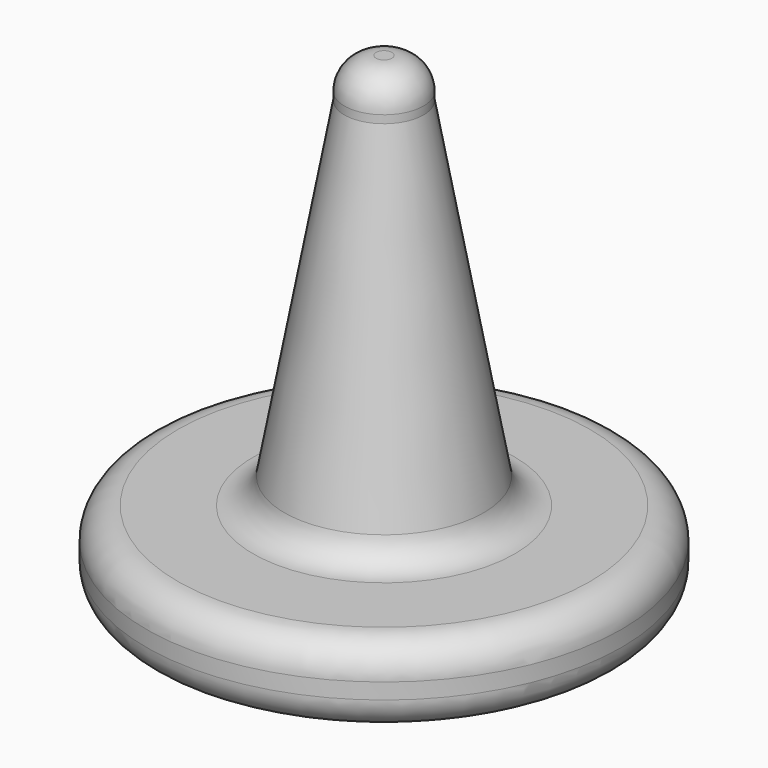
from build123d import *

# Parameters (mm, degrees)
F0_R     = 38.1
F1_DEPTH = 12.7
F4_R     = 5.08


with BuildPart() as f1:
    # F0 (on Top) → F1 (new body)
    with BuildSketch(Plane.XY):
        Circle(F0_R)
    extrude(amount=F1_DEPTH)

    # F2 (on Front) → F3 (revolve)
    with BuildSketch(Plane.XZ):
        Polygon((0, 69.85), (0, 12.7), (16.740909, 12.7), (6.35, 69.85), (6.35, 76.2), (0, 76.2), align=None)
    revolve(axis=Axis((0, 0, 41.275), (0, 0, 1)))

    # F4
    f4_edges = [f1.edges().sort_by_distance(p)[0] for p in [
        (-38.1, 0, 12.7),
        (-38.1, 0, 0),
        (-6.35, 0, 76.2),
        (-16.740909, 0, 12.7),
    ]]
    fillet(f4_edges, radius=F4_R)


solid = f1.part
